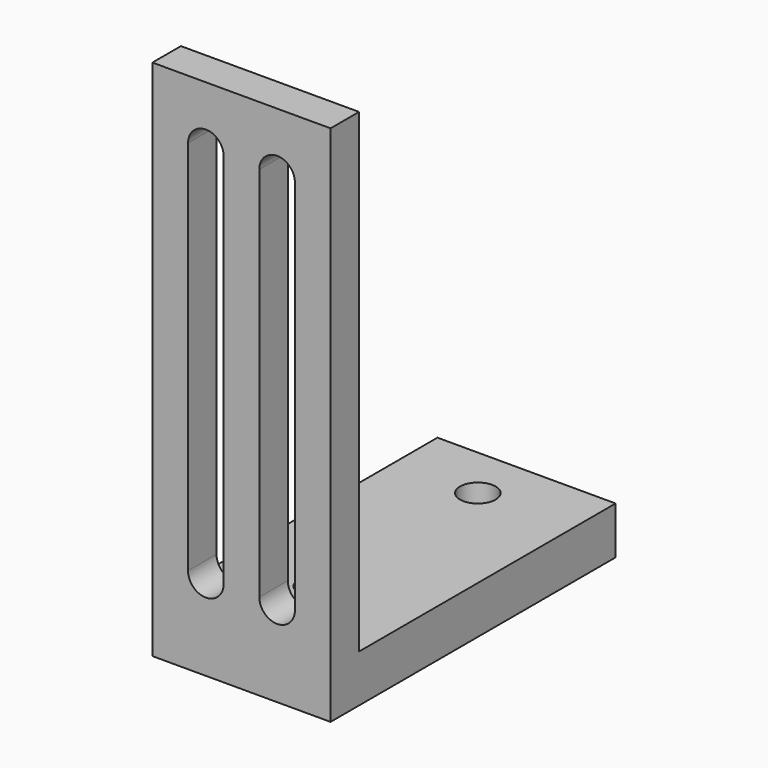
from build123d import *

# Parameters (mm, degrees)
F0_W     = 15
F0_H     = 30
F1_DEPTH = 4
F2_R     = 1.5
F3_DEPTH = 4
F4_W     = 15
F4_H     = 3
F5_DEPTH = 40
F7_DEPTH = 5.334


with BuildPart() as f1:
    # F0 (on Top) → F1 (new body)
    with BuildSketch(Plane.XY):
        with Locations((6.162141, 11.920514)):
            Rectangle(F0_W, F0_H)
    extrude(amount=F1_DEPTH)

    # F2 (on face) → F3 (cut)
    with BuildSketch(Plane.XY.offset(4)):
        with Locations((5.662141, 5.420514)):
            Circle(F2_R)
        with Locations((5.662141, 22.420514)):
            Circle(F2_R)
    extrude(amount=-F3_DEPTH, mode=Mode.SUBTRACT)

    # F4 (on face) → F5 (join)
    with BuildSketch(Plane.XY.offset(4)):
        with Locations((6.162141, -1.579486)):
            Rectangle(F4_W, F4_H)
    extrude(amount=F5_DEPTH)

    # F6 (on face) → F7 (cut)
    with BuildSketch(Plane(origin=(0, -0.079486, 0), x_dir=(-1, 0, 0), z_dir=(0, 1, 0))):
        with BuildLine():
            Line((-10.662141, 39), (-7.662141, 39))
            ThreePointArc((-7.662141, 39), (-9.162141, 40.5), (-10.662141, 39))
        make_face()
        with BuildLine():
            ThreePointArc((-10.662141, 39), (-9.162141, 37.5), (-7.662141, 39))
            Line((-7.662141, 39), (-10.662141, 39))
        make_face()
        with BuildLine():
            Line((-7.662141, 7.299973), (-7.662141, 39))
            ThreePointArc((-7.662141, 39), (-9.162141, 37.5), (-10.662141, 39))
            Line((-10.662141, 39), (-10.662141, 7.299973))
            ThreePointArc((-10.662141, 7.299973), (-9.162141, 8.799973), (-7.662141, 7.299973))
        make_face()
        with BuildLine():
            Line((-10.662141, 7.299973), (-7.662141, 7.299973))
            ThreePointArc((-7.662141, 7.299973), (-9.162141, 8.799973), (-10.662141, 7.299973))
        make_face()
        with BuildLine():
            ThreePointArc((-4.662141, 7.299973), (-3.162141, 5.799973), (-1.662141, 7.299973))
            Line((-1.662141, 7.299973), (-4.662141, 7.299973))
        make_face()
        with BuildLine():
            Line((-4.662141, 7.299973), (-1.662141, 7.299973))
            ThreePointArc((-1.662141, 7.299973), (-3.162141, 8.799973), (-4.662141, 7.299973))
        make_face()
        with BuildLine():
            ThreePointArc((-10.662141, 7.299973), (-9.162141, 5.799973), (-7.662141, 7.299973))
            Line((-7.662141, 7.299973), (-10.662141, 7.299973))
        make_face()
        with BuildLine():
            Line((-1.662141, 7.299973), (-1.662141, 39))
            ThreePointArc((-1.662141, 39), (-3.162141, 37.5), (-4.662141, 39))
            Line((-4.662141, 39), (-4.662141, 7.299973))
            ThreePointArc((-4.662141, 7.299973), (-3.162141, 8.799973), (-1.662141, 7.299973))
        make_face()
        with BuildLine():
            ThreePointArc((-4.662141, 39), (-3.162141, 37.5), (-1.662141, 39))
            Line((-1.662141, 39), (-4.662141, 39))
        make_face()
        with BuildLine():
            Line((-4.662141, 39), (-1.662141, 39))
            ThreePointArc((-1.662141, 39), (-3.162141, 40.5), (-4.662141, 39))
        make_face()
    extrude(amount=-F7_DEPTH, mode=Mode.SUBTRACT)


solid = f1.part
